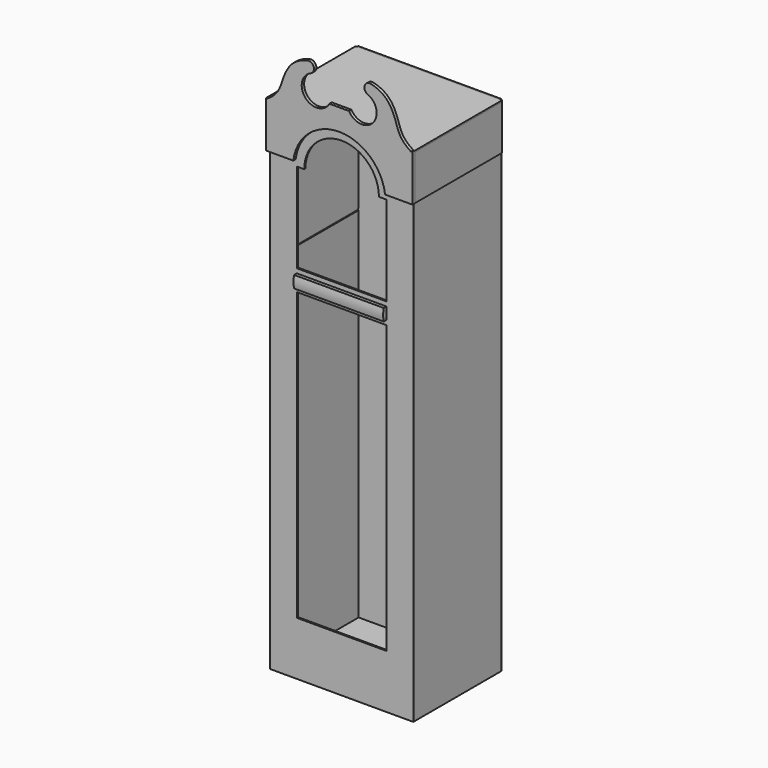
from build123d import *

# Parameters (mm, degrees)
F0_W      = 609.6
F0_H      = 2133.6
F0_W_2    = 381
F0_H_2    = 1219.2
F1_DEPTH  = 6.35
F2_W      = 457.2
F2_H      = 2133.6
F3_DEPTH  = 6.35
F4_W      = 457.2
F4_H      = 2133.6
F5_DEPTH  = 6.35
F7_DEPTH  = 12.7
F8_W      = 6.35
F8_H      = 190.5
F9_DEPTH  = 463.55
F10_W     = 622.3
F10_H     = 463.55
F11_DEPTH = 6.35
F12_W     = 596.9
F12_H     = 457.2
F13_DEPTH = 6.35
F14_W     = 603.25
F14_H     = 6.35
F15_DEPTH = 457.2
F16_W     = 14.2875
F16_H     = 50.8
F17_DEPTH = 381
F18_W     = 609.6
F18_H     = 2139.95
F19_DEPTH = 6.35


with BuildPart() as f1:
    # F0 (on Front) → F1 (new body)
    with BuildSketch(Plane.XZ):
        with Locations((304.8, 1066.8)):
            Rectangle(F0_W, F0_H)
        with Locations((304.8, 838.2)):
            Rectangle(F0_W_2, F0_H_2, mode=Mode.SUBTRACT)
        with BuildLine():
            Line((463.55, 1917.7), (495.3, 1917.7))
            Line((495.3, 1917.7), (495.3, 1536.7))
            Line((495.3, 1536.7), (114.3, 1536.7))
            Line((114.3, 1536.7), (114.3, 1917.7))
            Line((114.3, 1917.7), (146.05, 1917.7))
            ThreePointArc((146.05, 1917.7), (304.8, 2076.45), (463.55, 1917.7))
        make_face(mode=Mode.SUBTRACT)
    extrude(amount=F1_DEPTH)


with BuildPart() as f3:
    # F2 (on face) → F3 (new body)
    with BuildSketch(Plane.YZ.offset(609.6)):
        with Locations((228.6, 1066.8)):
            Rectangle(F2_W, F2_H)
    extrude(amount=-F3_DEPTH)


with BuildPart() as f5:
    # F4 (on face) → F5 (new body)
    with BuildSketch(Plane(origin=(0, 0, 0), x_dir=(0, -1, 0), z_dir=(-1, 0, 0))):
        with Locations((-228.6, 1066.8)):
            Rectangle(F4_W, F4_H)
    extrude(amount=-F5_DEPTH)


with BuildPart() as f7:
    # F6 (on face) → F7 (new body)
    with BuildSketch(Plane.XZ.offset(6.35)):
        with BuildLine():
            Line((0, 2133.6), (609.6, 2133.6))
            Line((609.6, 2133.6), (609.6, 2139.95))
            add(Edge.make_bspline(
                [(440.3879281905, 2337.5324360536), (486.9381206642, 2325.8629227688), (526.4502828103, 2285.2095078003), (550.7297351415, 2216.4126873435), (565.4865401656, 2167.7223258119), (609.6, 2139.95)],
                knots=[0, 0, 0, 0, 0.3580567719, 0.6428278206, 1, 1, 1, 1], degree=3))
            ThreePointArc((440.3879281905, 2337.5324360536), (412.973805792, 2322.5154000224), (425.8299925146, 2294.0239286494))
            ThreePointArc((425.8299925146, 2294.0239286494), (448.0413685505, 2194.3586440297), (346.5783555928, 2205.8378071219))
            Line((346.5783555928, 2205.8378071219), (304.8, 2205.8378071219))
            Line((304.8, 2205.8378071219), (263.0216444072, 2205.8378071219))
            ThreePointArc((263.0216444072, 2205.8378071219), (161.5586314495, 2194.3586440297), (183.7700074854, 2294.0239286494))
            ThreePointArc((183.7700074854, 2294.0239286494), (196.626194208, 2322.5154000224), (169.2120718095, 2337.5324360536))
            add(Edge.make_bspline(
                [(169.2120718095, 2337.5324360536), (122.6618793358, 2325.8629227688), (83.1497171897, 2285.2095078003), (58.8702648585, 2216.4126873435), (44.1134598344, 2167.7223258119), (0, 2139.95)],
                knots=[0, 0, 0, 0, 0.3580567719, 0.6428278206, 1, 1, 1, 1], degree=3))
            Line((0, 2139.95), (0, 2133.6))
        make_face()
        with BuildLine():
            Line((0, 2133.6), (609.6, 2133.6))
            Line((609.6, 2133.6), (609.6, 2139.95))
            add(Edge.make_bspline(
                [(440.3879281905, 2337.5324360536), (486.9381206642, 2325.8629227688), (526.4502828103, 2285.2095078003), (550.7297351415, 2216.4126873435), (565.4865401656, 2167.7223258119), (609.6, 2139.95)],
                knots=[0, 0, 0, 0, 0.3580567719, 0.6428278206, 1, 1, 1, 1], degree=3))
            ThreePointArc((440.3879281905, 2337.5324360536), (412.973805792, 2322.5154000224), (425.8299925146, 2294.0239286494))
            ThreePointArc((425.8299925146, 2294.0239286494), (448.0413685505, 2194.3586440297), (346.5783555928, 2205.8378071219))
            Line((346.5783555928, 2205.8378071219), (304.8, 2205.8378071219))
            Line((304.8, 2205.8378071219), (263.0216444072, 2205.8378071219))
            ThreePointArc((263.0216444072, 2205.8378071219), (161.5586314495, 2194.3586440297), (183.7700074854, 2294.0239286494))
            ThreePointArc((183.7700074854, 2294.0239286494), (196.626194208, 2322.5154000224), (169.2120718095, 2337.5324360536))
            add(Edge.make_bspline(
                [(169.2120718095, 2337.5324360536), (122.6618793358, 2325.8629227688), (83.1497171897, 2285.2095078003), (58.8702648585, 2216.4126873435), (44.1134598344, 2167.7223258119), (0, 2139.95)],
                knots=[0, 0, 0, 0, 0.3580567719, 0.6428278206, 1, 1, 1, 1], degree=3))
            Line((0, 2139.95), (0, 2133.6))
        make_face()
        with BuildLine():
            ThreePointArc((109.5955879085, 1943.1), (304.8, 2114.55), (500.0044120915, 1943.1))
            Line((500.0044120915, 1943.1), (609.6, 1943.1))
            Line((609.6, 1943.1), (609.6, 2133.6))
            Line((609.6, 2133.6), (0, 2133.6))
            Line((0, 2133.6), (0, 1943.1))
            Line((0, 1943.1), (109.5955879085, 1943.1))
        make_face()
        Polygon((609.6, 2133.6), (609.6, 1943.1), (615.95, 1943.1), (615.95, 2139.95), (609.6, 2139.95), align=None)
        Polygon((-6.35, 1943.1), (0, 1943.1), (0, 2133.6), (0, 2139.95), (-6.35, 2139.95), align=None)
        with BuildLine():
            ThreePointArc((109.5955879085, 1943.1), (304.8, 2114.55), (500.0044120915, 1943.1))
            Line((500.0044120915, 1943.1), (609.6, 1943.1))
            Line((609.6, 1943.1), (609.6, 2133.6))
            Line((609.6, 2133.6), (0, 2133.6))
            Line((0, 2133.6), (0, 1943.1))
            Line((0, 1943.1), (109.5955879085, 1943.1))
        make_face()
    extrude(amount=F7_DEPTH)


with BuildPart() as f9:
    # F8 (on face) → F9 (new body, through all)
    with BuildSketch(Plane(origin=(0, -6.35, 0), x_dir=(-1, 0, 0), z_dir=(0, 1, 0))):
        with Locations((-612.775, 2038.35)):
            Rectangle(F8_W, F8_H)
    extrude(amount=F9_DEPTH)


with BuildPart() as f9b:
    # F8 (on face) → F9, piece 2 (new body, through all)
    with BuildSketch(Plane(origin=(0, -6.35, 0), x_dir=(-1, 0, 0), z_dir=(0, 1, 0))):
        with Locations((3.175, 2038.35)):
            Rectangle(F8_W, F8_H)
    extrude(amount=F9_DEPTH)


with BuildPart() as f11:
    # F10 (on face) → F11 (new body)
    with BuildSketch(Plane.XY.offset(2133.6)):
        with Locations((304.8, 225.425)):
            Rectangle(F10_W, F10_H)
    extrude(amount=F11_DEPTH)


with BuildPart() as f13:
    # F12 (on face) → F13 (new body)
    with BuildSketch(Plane(origin=(0, 0, 0), x_dir=(1, 0, 0), z_dir=(0, 0, -1))):
        with Locations((304.8, -228.6)):
            Rectangle(F12_W, F12_H)
    extrude(amount=-F13_DEPTH)


with BuildPart() as f15_tool:
    # F14 (on face) → F15 (new body, through all)
    with BuildSketch(Plane(origin=(0, 0, 0), x_dir=(-1, 0, 0), z_dir=(0, 1, 0))):
        with Locations((-304.8, 1533.525)):
            Rectangle(F14_W, F14_H)
    extrude(amount=F15_DEPTH)


with BuildPart() as f3_1:
    add(f3.part)

    # F15: cut by f15_tool
    add(f15_tool.part, mode=Mode.SUBTRACT)


with BuildPart() as f5_1:
    add(f5.part)

    # F15: cut by f15_tool
    add(f15_tool.part, mode=Mode.SUBTRACT)


with BuildPart() as f17:
    # F16 (on face) → F17 (new body, through all)
    with BuildSketch(Plane(origin=(495.3, 0, 0), x_dir=(0, -1, 0), z_dir=(-1, 0, 0))):
        with Locations((13.49375, 1492.25)):
            Rectangle(F16_W, F16_H)
        with BuildLine():
            ThreePointArc((20.6375, 1466.85), (23.5824851841, 1492.25), (20.6375, 1517.65))
            Line((20.6375, 1517.65), (20.6375, 1466.85))
        make_face()
    extrude(amount=F17_DEPTH)


with BuildPart() as f19:
    # F18 (on face) → F19 (new body)
    with BuildSketch(Plane(origin=(0, 457.2, 0), x_dir=(-1, 0, 0), z_dir=(0, 1, 0))):
        with Locations((-304.8, 1069.975)):
            Rectangle(F18_W, F18_H)
    extrude(amount=F19_DEPTH)


solid = Compound([f1.part, f7.part, f9.part, f9b.part, f11.part, f13.part, f3_1.part, f5_1.part, f17.part, f19.part])
